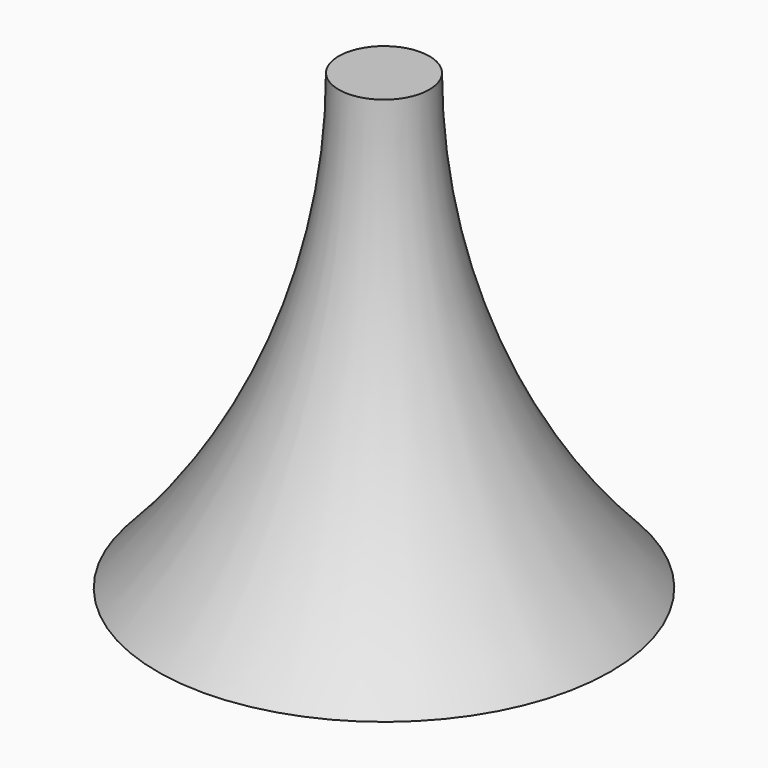
from build123d import *


with BuildPart() as part:
    # Sketch → Revolution (revolve)
    with BuildSketch(Plane.XZ):
        with BuildLine():
            Line((0, 0), (0, 20))
            Line((0, 20), (2, 20))
            ThreePointArc((2, 20), (4.074176, 9.22967), (10, 0))
            Line((10, 0), (0, 0))
        make_face()
    revolve(axis=Axis((0, 0, 0), (0, 0, 1)))


solid = part.part
